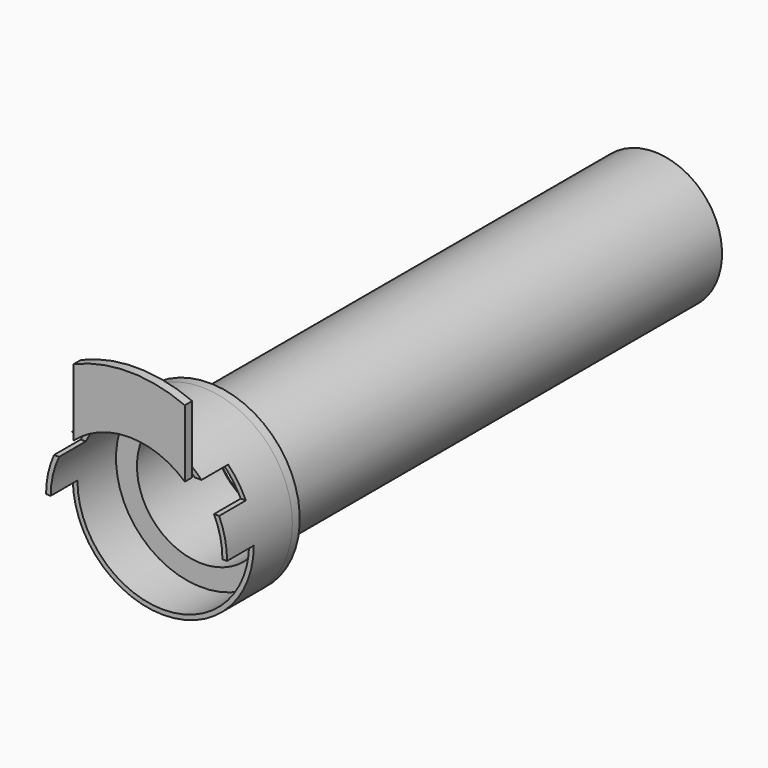
from build123d import *

# Parameters (mm, degrees)
F0_R      = 24.4
F0_R_2    = 23.15
F1_DEPTH  = 22
F3_DEPTH  = 2.5
F4_W      = 9
F4_H      = 7
F5_DEPTH  = 25
F6_W      = 9
F6_H      = 7
F7_DEPTH  = 25
F8_W      = 9
F8_H      = 24.4
F9_DEPTH  = 25
F10_W     = 9
F10_H     = 24.4
F11_DEPTH = 25
F13_R     = 24.4
F12_R     = 24.4
F12_R_2   = 23.15
F14_DEPTH = 2.5
F15_R     = 18.25
F15_R_2   = 17.25
F16_DEPTH = 150
F17_R     = 17.5
F18_DEPTH = 25


with BuildPart() as f1:
    # F0 (on Front) → F1 (new body)
    with BuildSketch(Plane.XZ):
        Circle(F0_R)
        Circle(F0_R_2, mode=Mode.SUBTRACT)
    extrude(amount=-F1_DEPTH)

    # F2 (on Front) → F3 (join)
    with BuildSketch(Plane.XZ):
        with BuildLine():
            Line((15, 16.77051), (15, 34.914181))
            ThreePointArc((15, 34.914181), (0, 38), (-15, 34.914181))
            Line((-15, 34.914181), (-15, 16.77051))
            ThreePointArc((-15, 16.77051), (0, 22.5), (15, 16.77051))
        make_face()
    extrude(amount=F3_DEPTH)

    # F4 (on Right) → F5 (cut)
    with BuildSketch(Plane.YZ):
        with Locations((4.5, 13.5)):
            Rectangle(F4_W, F4_H)
    extrude(amount=-F5_DEPTH, mode=Mode.SUBTRACT)

    # F6 (on Right) → F7 (cut)
    with BuildSketch(Plane.YZ):
        with Locations((4.5, 13.5)):
            Rectangle(F6_W, F6_H)
    extrude(amount=F7_DEPTH, mode=Mode.SUBTRACT)

    # F8 (on Right) → F9 (cut)
    with BuildSketch(Plane.YZ):
        with Locations((4.5, -12.2)):
            Rectangle(F8_W, F8_H)
    extrude(amount=-F9_DEPTH, mode=Mode.SUBTRACT)

    # F10 (on Right) → F11 (cut)
    with BuildSketch(Plane.YZ):
        with Locations((4.5, -12.2)):
            Rectangle(F10_W, F10_H)
    extrude(amount=F11_DEPTH, mode=Mode.SUBTRACT)

    # F13 (on face) + F12 (on face) → F14 (join)
    with BuildSketch(Plane(origin=(0, 22, 0), x_dir=(-1, 0, 0), z_dir=(0, 1, 0))):
        Circle(F13_R)
    with BuildSketch(Plane(origin=(0, 22, 0), x_dir=(-1, 0, 0), z_dir=(0, 1, 0))):
        Circle(F12_R)
        Circle(F12_R_2, mode=Mode.SUBTRACT)
    extrude(amount=F14_DEPTH)

    # F15 (on face) → F16 (join)
    with BuildSketch(Plane(origin=(0, 24.5, 0), x_dir=(-1, 0, 0), z_dir=(0, 1, 0))):
        Circle(F15_R)
        Circle(F15_R_2, mode=Mode.SUBTRACT)
    extrude(amount=F16_DEPTH)

    # F17 (on face) → F18 (cut)
    with BuildSketch(Plane.XZ.offset(-22)):
        Circle(F17_R)
    extrude(amount=-F18_DEPTH, mode=Mode.SUBTRACT)


solid = f1.part
